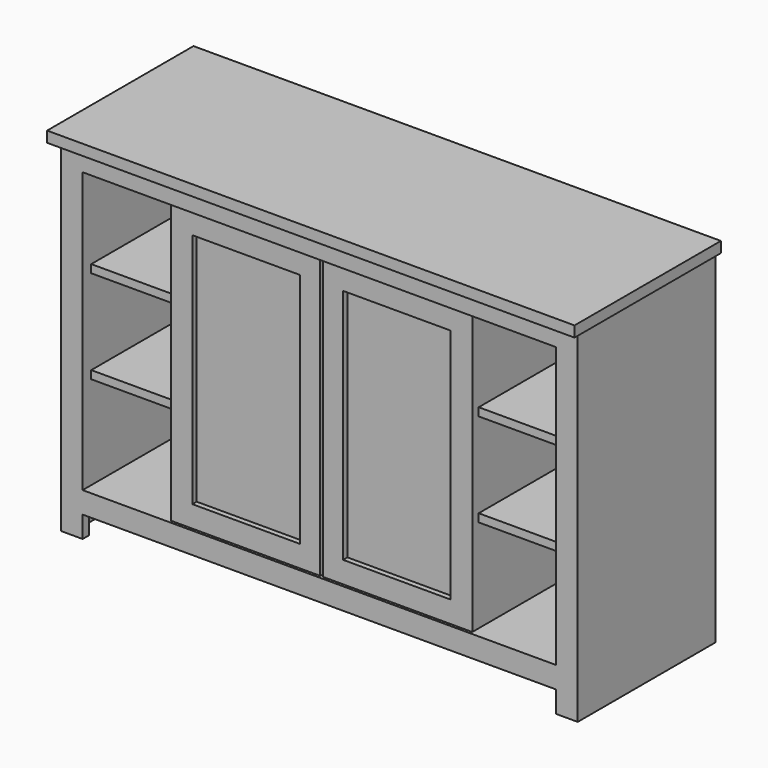
from build123d import *

# Parameters (mm, degrees)
F0_W      = 1219.2
F0_H      = 762
F1_DEPTH  = 406.4
F2_W      = 38.1
F2_H      = 38.1
F3_DEPTH  = 50.8
F4_W      = 1219.2
F4_H      = 406.4
F5_DEPTH  = 25.4
F7_DEPTH  = 6.35
F6_W      = 203.2
F6_H      = 660.4
F8_DEPTH  = 381
F9_W      = 254
F9_H      = 558.8
F10_DEPTH = 12.7
F9_W_2    = 3.175
F11_DEPTH = 25.4
F12_W     = 203.2
F12_H     = 19.05
F13_DEPTH = 355.6
F14_DEPTH = 50.8
F15_W     = 19.05
F15_H     = 19.05
F15_H_2   = 387.35
F15_W_2   = 31.75
F16_DEPTH = 50.8


with BuildPart() as f1:
    # F0 (on Front) → F1 (new body)
    with BuildSketch(Plane.XZ):
        Rectangle(F0_W, F0_H)
    extrude(amount=F1_DEPTH)

    # F2 (on face) → F3 (join)
    with BuildSketch(Plane(origin=(0, 0, -381), x_dir=(1, 0, 0), z_dir=(0, 0, -1))):
        with Locations((-590.55, 387.35)):
            Rectangle(F2_W, F2_H)
        with Locations((-590.55, 19.05)):
            Rectangle(F2_W, F2_H)
        with Locations((590.55, 387.35)):
            Rectangle(F2_W, F2_H)
        with Locations((590.55, 19.05)):
            Rectangle(F2_W, F2_H)
    extrude(amount=F3_DEPTH)

    # F4 (on face) → F5 (join)
    with BuildSketch(Plane.XY.offset(381)):
        with Locations((0, -203.2)):
            Rectangle(F4_W, F4_H)
        Polygon((-609.6, -406.4), (-609.6, 0), (-622.3, 0), (-622.3, -406.4), (-622.3, -431.8), (622.3, -431.8), (622.3, 0), (609.6, 0), (609.6, -406.4), align=None)
    extrude(amount=F5_DEPTH)

    # F6 (on face) → F7 (cut)
    with BuildSketch(Plane.XZ.offset(406.4)):
        Polygon((-101.6, 330.2), (-355.6, 330.2), (-355.6, -330.2), (0, -330.2), (0, 0), (0, 330.2), align=None)
        Polygon((355.6, 330.2), (0, 330.2), (0, 0), (0, -330.2), (355.6, -330.2), align=None)
    extrude(amount=-F7_DEPTH, mode=Mode.SUBTRACT)

    # F6 (on face) → F8 (cut)
    with BuildSketch(Plane.XZ.offset(406.4)):
        with Locations((-457.2, 0)):
            Rectangle(F6_W, F6_H)
        with Locations((457.2, 0)):
            Rectangle(F6_W, F6_H)
    extrude(amount=-F8_DEPTH, mode=Mode.SUBTRACT)

    # F9 (on face) → F10 (cut)
    with BuildSketch(Plane.XZ.offset(400.05)):
        with Locations((-177.8, 0)):
            Rectangle(F9_W, F9_H)
        with Locations((177.8, 0)):
            Rectangle(F9_W, F9_H)
    extrude(amount=-F10_DEPTH, mode=Mode.SUBTRACT)

    # F9 (on face) → F11 (cut)
    with BuildSketch(Plane.XZ.offset(400.05)):
        with Locations((1.5875, 0)):
            Rectangle(F9_W_2, F9_H)
        with Locations((-1.5875, 0)):
            Rectangle(F9_W_2, F9_H)
        Polygon((-3.175, -279.4), (-3.175, -330.2), (3.175, -330.2), (3.175, -279.4), (0, -279.4), align=None)
        Polygon((-3.175, 330.2), (-3.175, 279.4), (0, 279.4), (3.175, 279.4), (3.175, 330.2), align=None)
    extrude(amount=-F11_DEPTH, mode=Mode.SUBTRACT)

    # F12 (on face) → F13 (join)
    with BuildSketch(Plane.XZ.offset(25.4)):
        with Locations((-457.2, 119.507)):
            Rectangle(F12_W, F12_H)
        with Locations((-457.2, -100.711)):
            Rectangle(F12_W, F12_H)
        with Locations((457.2, -100.711)):
            Rectangle(F12_W, F12_H)
        with Locations((457.2, 119.507)):
            Rectangle(F12_W, F12_H)
    extrude(amount=F13_DEPTH)

    # F14 (cut): faces of the model
    f14_faces = [f1.faces().sort_by_distance(p)[0] for p in [
        (-590.55, -387.35, -431.8),
        (590.55, -387.35, -431.8),
        (590.55, -19.05, -431.8),
        (-590.55, -19.05, -431.8),
    ]]
    extrude(f14_faces, amount=-F14_DEPTH, mode=Mode.SUBTRACT)

    # F15 (on face) → F16 (join)
    with BuildSketch(Plane(origin=(0, 0, -381), x_dir=(1, 0, 0), z_dir=(0, 0, -1))):
        with Locations((-600.075, 396.875)):
            Rectangle(F15_W, F15_H)
        with Locations((-600.075, 193.675)):
            Rectangle(F15_W, F15_H_2)
        with Locations((600.075, 193.675)):
            Rectangle(F15_W, F15_H_2)
        with Locations((600.075, 396.875)):
            Rectangle(F15_W, F15_H)
        with Locations((574.675, 396.875)):
            Rectangle(F15_W_2, F15_H)
        with Locations((-574.675, 396.875)):
            Rectangle(F15_W_2, F15_H)
    extrude(amount=F16_DEPTH)


solid = f1.part
